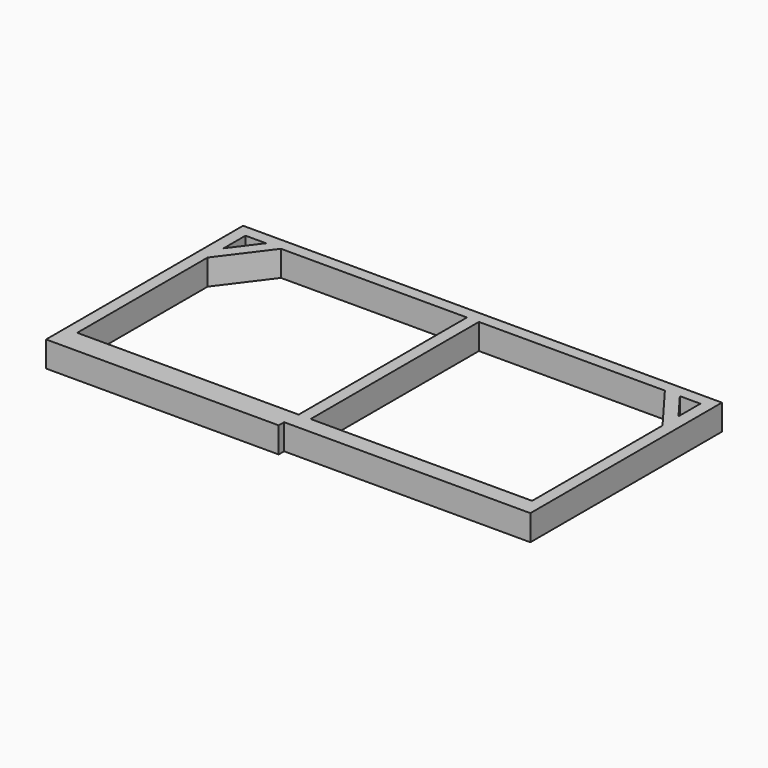
from build123d import *

# Parameters (mm, degrees)
F0_W     = 44.45
F0_H     = 781.05
F1_DEPTH = 95.25


with BuildPart() as f1:
    # F0 (on Top) → F1 (new body)
    with BuildSketch(Plane.XY):
        Polygon((882.932892, 558.912271), (-895.067108, 558.912271), (-895.067108, 514.462271), (-850.617108, 514.462271), (-774.417108, 514.462271), (-718.854608, 514.462271), (-28.292108, 514.462271), (16.157892, 514.462271), (706.720392, 514.462271), (762.282892, 514.462271), (838.482892, 514.462271), (882.932892, 514.462271), align=None)
        Polygon((-850.617108, 514.462271), (-895.067108, 514.462271), (-895.067108, -311.037729), (-850.617108, -311.037729), (-850.617108, -266.587729), (-850.617108, 338.778938), (-850.617108, 412.862271), align=None)
        Polygon((-774.417108, 514.462271), (-850.617108, 412.862271), (-850.617108, 338.778938), (-718.854608, 514.462271), align=None)
        with Locations((-6.067108, 123.937271)):
            Rectangle(F0_W, F0_H)
        Polygon((838.482892, 338.778938), (838.482892, 412.862271), (762.282892, 514.462271), (706.720392, 514.462271), align=None)
        Polygon((882.932892, -311.037729), (882.932892, 514.462271), (838.482892, 514.462271), (838.482892, 412.862271), (838.482892, 338.778938), (838.482892, -266.587729), (838.482892, -311.037729), align=None)
        Polygon((-850.617108, -266.587729), (-850.617108, -311.037729), (838.482892, -311.037729), (838.482892, -266.587729), (16.157892, -266.587729), (-28.292108, -266.587729), align=None)
        Polygon((-850.617108, -311.037729), (-895.067108, -311.037729), (-895.067108, -355.487729), (-31.467108, -355.487729), (-31.467108, -330.087729), (882.932892, -330.087729), (882.932892, -311.037729), (838.482892, -311.037729), align=None)
    extrude(amount=F1_DEPTH)


solid = f1.part
